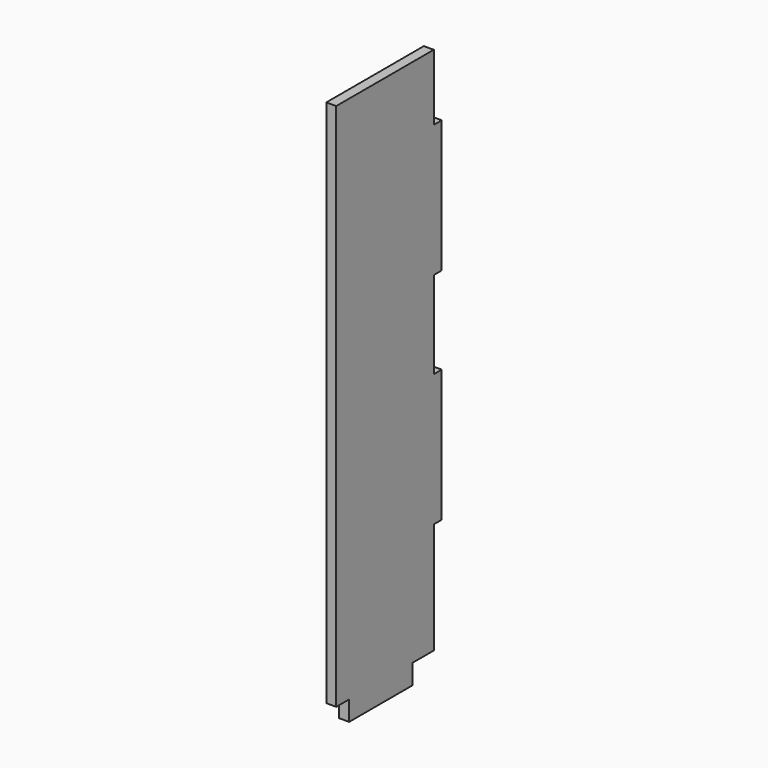
from build123d import *

# Parameters (mm, degrees)
F1_DEPTH = 3.75


with BuildPart() as f1:
    # F0 (on Right) → F1 (new body)
    with BuildSketch(Plane.YZ):
        Polygon((0, 208.051629), (0, 8.051629), (6.125, 8.051629), (6.125, 0.551629), (36.125, 0.551629), (36.125, 8.051629), (46.125, 8.051629), (46.125, 50.051629), (49.875, 50.051629), (49.875, 100.051629), (46.125, 100.051629), (46.125, 133.051629), (49.875, 133.051629), (49.875, 183.051629), (46.125, 183.051629), (46.125, 208.051629), align=None)
    extrude(amount=F1_DEPTH)


solid = f1.part
